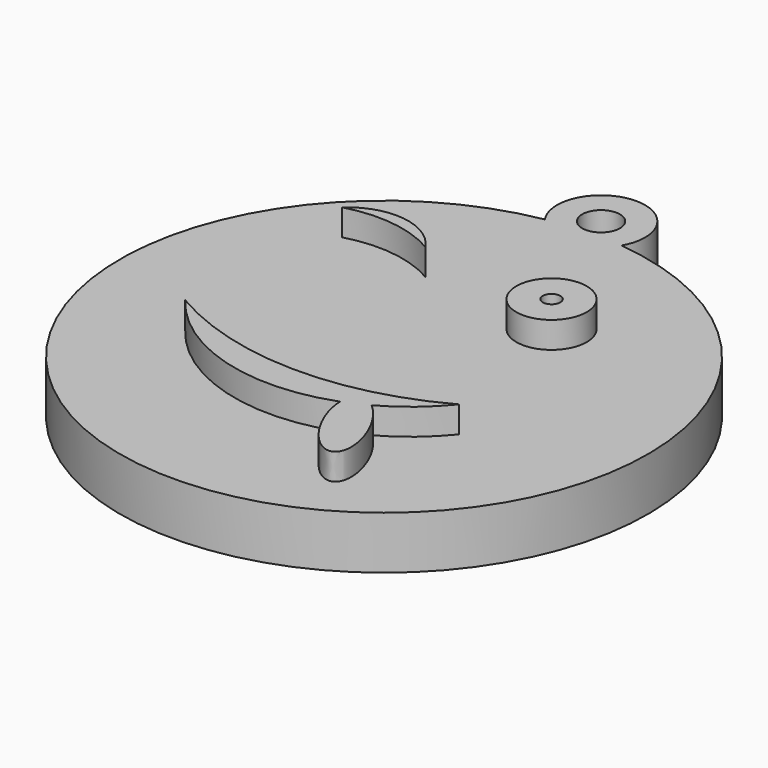
from build123d import *

# Parameters (mm, degrees)
F0_R     = 15
F1_DEPTH = 3
F2_R     = 2
F2_R_2   = 0.5
F3_DEPTH = 1.5
F4_R     = 2.5
F4_R_2   = 1.075
F5_DEPTH = 3


with BuildPart() as f1:
    # F0 (on Top) → F1 (new body)
    with BuildSketch(Plane.XY):
        with Locations((-16.1491949111, 10.887096636)):
            Circle(F0_R)
    extrude(amount=F1_DEPTH)

    # F2 (on face) → F3 (join)
    with BuildSketch(Plane.XY.offset(3)):
        with Locations((-12, 17.6008082926)):
            Circle(F2_R)
        with Locations((-12, 17.6008082926)):
            Circle(F2_R_2, mode=Mode.SUBTRACT)
        with BuildLine():
            ThreePointArc((-8.8824603224, 7.1392940688), (-16.7881056428, 5.1821903468), (-24.6329733241, 7.3702337589))
            ThreePointArc((-24.6329733241, 7.3702337589), (-19.4510459053, 3.8110892822), (-13.1690173954, 4.0477303202))
            add(Edge.make_bspline(
                [(-13.1690173954, 4.0477303202), (-13.1362154253, -1.1413398729), (-10.427309312, 0.097086679), (-7.7184031986, 1.335513231), (-11.8713523396, 4.6409819109)],
                knots=[3.8341028208, 3.8341028208, 3.8341028208, 6.2689537824, 6.2689537824, 8.7038047441, 8.7038047441, 8.7038047441], degree=2, weights=[1, 0.3460623341, 1, 0.3460623341, 1]))
            ThreePointArc((-11.8713523396, 4.6409819109), (-10.254077445, 5.743189869), (-8.8824603224, 7.1392940688))
        make_face()
        with BuildLine():
            ThreePointArc((-24.7671979005, 18.6823099732), (-22.0677226207, 18.8845619079), (-19.5026847059, 18.0193144708))
            ThreePointArc((-19.5026847059, 18.0193144708), (-21.9828567976, 19.558438644), (-24.7671979005, 18.6823099732))
        make_face()
    extrude(amount=F3_DEPTH)

    # F4 (on face) → F5 (join)
    with BuildSketch(Plane.XY.offset(3)):
        with Locations((-16.757108611, 27.0656452758)):
            Circle(F4_R)
        with Locations((-16.757108611, 27.0656452758)):
            Circle(F4_R_2, mode=Mode.SUBTRACT)
    extrude(amount=-F5_DEPTH)


solid = f1.part
